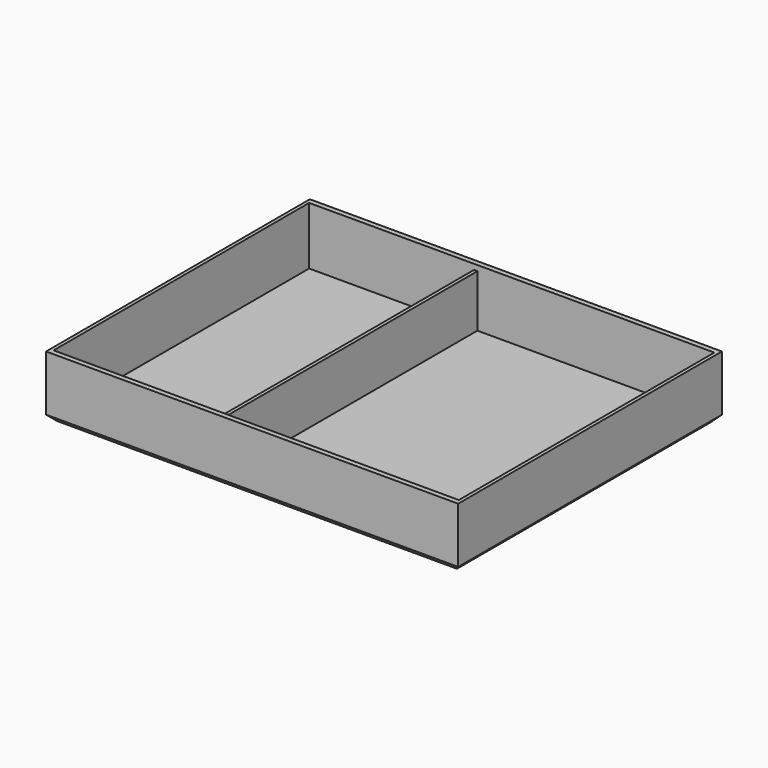
from build123d import *

# Parameters (mm, degrees)
F0_W     = 200
F0_H     = 30
F1_DEPTH = 80
F2_W     = 0.6549034361
F2_H     = 3.5952763587
F2_W_2   = 1.654828703
F2_W_3   = 2.3097321391
F3_DEPTH = 77.5
F4_SIZE  = 3


with BuildPart() as f1:
    # F0 (on Front) → F1 (new body, symmetric)
    with BuildSketch(Plane.XZ):
        with Locations((100, 15)):
            Rectangle(F0_W, F0_H)
    extrude(amount=F1_DEPTH, both=True)

    # F2 (on Front) → F3 (cut, symmetric)
    with BuildSketch(Plane.XZ):
        Polygon((81.0098946095, 30.9638166718), (1.6647980455, 30.9638166718), (1.6647980455, 1.9638166718), (81.6647980455, 1.9638166718), (81.6647980455, 27.3685403131), (81.0098946095, 27.3685403131), align=None)
        with Locations((81.3373463275, 29.1661784924)):
            Rectangle(F2_W, F2_H)
        with Locations((82.492212397, 29.1661784924)):
            Rectangle(F2_W_2, F2_H)
        with Locations((84.4744928181, 29.1661784924)):
            Rectangle(F2_W_3, F2_H)
        Polygon((85.6293588877, 27.3685403131), (83.3196267486, 27.3685403131), (83.3196267486, 1.9638166718), (198.3196267486, 1.9638166718), (198.3196267486, 30.9638166718), (85.6293588877, 30.9638166718), align=None)
    extrude(amount=F3_DEPTH, both=True, mode=Mode.SUBTRACT)

    # F4
    f4_edges = [f1.edges().sort_by_distance(p)[0] for p in [
        (100, -80, 0),
        (0, 0, 0),
        (100, 80, 0),
        (200, 0, 0),
    ]]
    chamfer(f4_edges, length=F4_SIZE)


solid = f1.part
